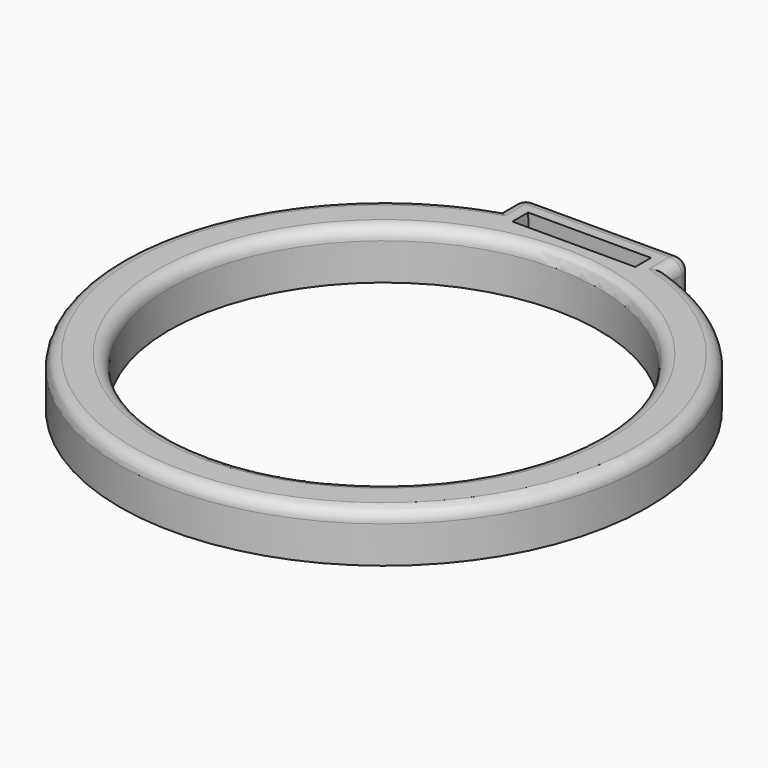
from build123d import *

# Parameters (mm, degrees)
SKETCH_R    = 35
PAD_DEPTH   = 8
SKETCH001_W = 20
SKETCH001_H = 3.7
SKETCH002_W = 20
SKETCH002_H = 3.2
FILLET_R    = 2


with BuildPart() as part:
    # Sketch → Pad (new body)
    with BuildSketch(Plane.XY):
        with BuildLine():
            ThreePointArc((-13.7, 40.759171), (0, -43), (13.7, 40.759171))
            Line((13.7, 45.5), (13.7, 40.759171))
            Line((-13.7, 45.5), (13.7, 45.5))
            Line((-13.7, 40.759171), (-13.7, 45.5))
        make_face()
        Circle(SKETCH_R, mode=Mode.SUBTRACT)
    extrude(amount=PAD_DEPTH)

    # Sketch001 → SubtractiveLoft section 0
    with BuildSketch(Plane.XY):
        with Locations((0, 40.25)):
            Rectangle(SKETCH001_W, SKETCH001_H)
    # Sketch002 (on Face7 of Pad) → SubtractiveLoft section 1
    with BuildSketch(Plane.XY.offset(8)):
        with Locations((0, 40.25)):
            Rectangle(SKETCH002_W, SKETCH002_H)
    loft(mode=Mode.SUBTRACT)

    # Fillet
    fillet_edges = [part.edges().sort_by_distance(p)[0] for p in [
        (-35, 0, 8),
        (0, -43, 8),
        (-13.7, 43.129585, 8),
        (13.7, 43.129585, 8),
        (-13.7, 45.5, 4),
        (13.7, 45.5, 4),
        (0, 45.5, 8),
    ]]
    fillet(fillet_edges, radius=FILLET_R)


solid = part.part
